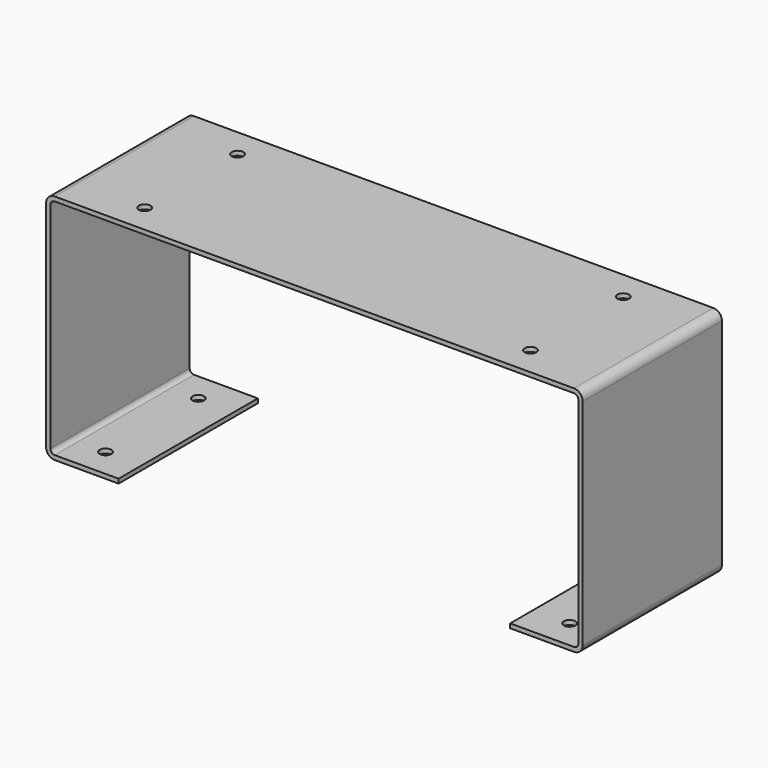
from build123d import *

# Parameters (mm, degrees)
F1_DEPTH = 30
F2_R     = 2
F3_DEPTH = 25
F4_R     = 2
F5_DEPTH = 10
F6_R     = 3
F7_R     = 1.5


with BuildPart() as f1:
    # F0 (on Front) → F1 (new body, symmetric)
    with BuildSketch(Plane.XZ):
        Polygon((92.5, 80), (0, 80), (-92.5, 80), (-92.5, 0), (-67.5, 0), (-67.5, 1.5), (-91, 1.5), (-91, 78.5), (0, 78.5), (91, 78.5), (91, 1.5), (67.5, 1.5), (67.5, 0), (92.5, 0), align=None)
    extrude(amount=F1_DEPTH, both=True)

    # F2 (on face) → F3 (cut)
    with BuildSketch(Plane.XY.offset(80)):
        with Locations((-66.5, 20)):
            Circle(F2_R)
        with Locations((-66.5, -20)):
            Circle(F2_R)
        with Locations((66.5, 20)):
            Circle(F2_R)
        with Locations((66.5, -20)):
            Circle(F2_R)
    extrude(amount=-F3_DEPTH, mode=Mode.SUBTRACT)

    # F4 (on face) → F5 (cut)
    with BuildSketch(Plane(origin=(0, 0, 0), x_dir=(1, 0, 0), z_dir=(0, 0, -1))):
        with Locations((-80, 20)):
            Circle(F4_R)
        with Locations((-80, -20)):
            Circle(F4_R)
        with Locations((80, -20)):
            Circle(F4_R)
        with Locations((80, 20)):
            Circle(F4_R)
    extrude(amount=-F5_DEPTH, mode=Mode.SUBTRACT)

    # F6
    f6_edges = [f1.edges().sort_by_distance(p)[0] for p in [
        (-92.5, 0, 80),
        (-92.5, 0, 0),
        (92.5, 0, 80),
        (92.5, 0, 0),
    ]]
    fillet(f6_edges, radius=F6_R)

    # F7
    f7_edges = [f1.edges().sort_by_distance(p)[0] for p in [
        (-91, 0, 78.5),
        (91, 0, 78.5),
        (-91, 0, 1.5),
        (91, 0, 1.5),
    ]]
    fillet(f7_edges, radius=F7_R)


solid = f1.part
